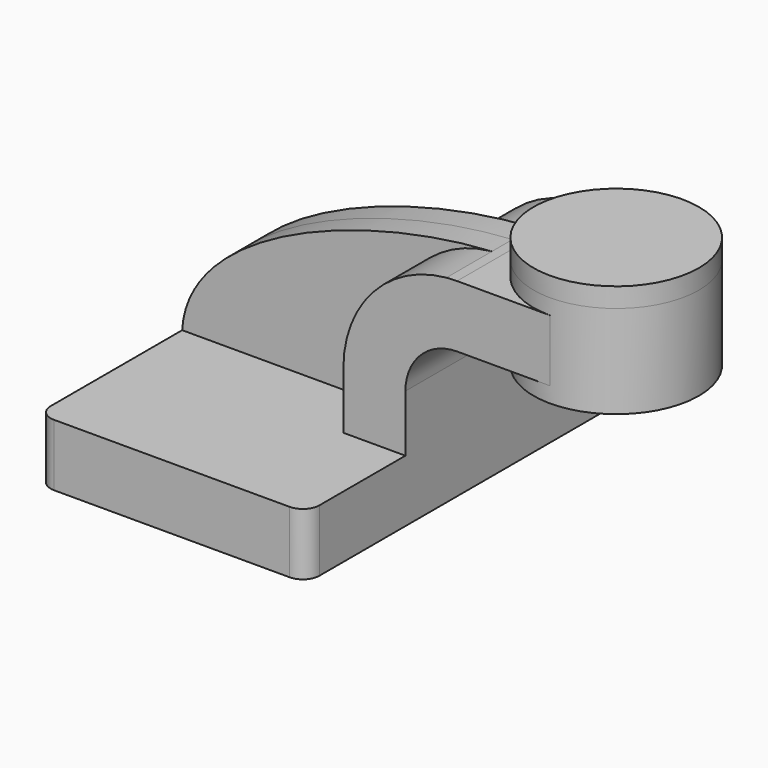
from build123d import *

# Parameters (mm, degrees)
F1_DEPTH = 63.5
F0_W     = 25.4
F0_H     = 19.05
F2_DEPTH = 25.4
F3_DEPTH = 7.9375
F5_R     = 5.08
F6_DEPTH = 6


with BuildPart() as f1:
    # F0 (on Front) → F1 (new body, symmetric)
    with BuildSketch(Plane.XZ):
        Polygon((22.225, 9.525), (-41.275, 9.525), (-41.275, -9.525), (41.275, -9.525), (41.275, 9.525), align=None)
    extrude(amount=F1_DEPTH, both=True)

    # F0 (on Front) → F2 (join, symmetric)
    with BuildSketch(Plane.XZ):
        with BuildLine():
            Line((22.225, 27.0002), (22.225, 9.525))
            Line((22.225, 9.525), (41.275, 9.525))
            Line((41.275, 9.525), (41.275, 27.0002))
            ThreePointArc((41.275, 27.0002), (45.9246798487, 38.2255201513), (57.15, 42.8752))
            Line((57.15, 42.8752), (60.325, 42.8752))
            Line((60.325, 42.8752), (60.325, 61.9252))
            Line((60.325, 61.9252), (57.15, 61.9252))
            add(Edge.make_bspline(
                [(53.8854342407, 61.7722898912), (54.9842067368, 61.8365871986), (56.0728453275, 61.8876096574), (57.15, 61.9252)],
                knots=[108.5245810491, 108.5245810491, 108.5245810491, 108.5245810491, 111.5045361635, 111.5045361635, 111.5045361635, 111.5045361635], degree=3))
            ThreePointArc((53.8854342407, 61.7722898912), (31.3258777096, 50.5133948686), (22.225, 27.0002))
        make_face()
        with Locations((73.025, 52.4002)):
            Rectangle(F0_W, F0_H)
    extrude(amount=F2_DEPTH, both=True)

    # F0 (on Front) → F3 (join, symmetric)
    with BuildSketch(Plane.XZ):
        with BuildLine():
            add(Edge.make_bspline(
                [(-41.275, 9.525), (-39.5856284224, 39.4828766469), (13.870125209, 59.4306981306), (53.8854342407, 61.7722898912)],
                knots=[0, 0, 0, 0, 108.5245810491, 108.5245810491, 108.5245810491, 108.5245810491], degree=3))
            Line((-41.275, 9.525), (22.225, 9.525))
            Line((22.225, 9.525), (22.225, 27.0002))
            ThreePointArc((22.225, 27.0002), (31.3258777096, 50.5133948686), (53.8854342407, 61.7722898912))
        make_face()
    extrude(amount=F3_DEPTH, both=True)

    # F0 (on Front) → F4 (revolve)
    with BuildSketch(Plane.XZ):
        Polygon((85.725, 66.675), (85.725, 61.9252), (85.725, 42.8752), (85.725, 38.1), (111.125, 38.1), (111.125, 66.675), align=None)
    revolve(axis=Axis((85.725, 0, 52.3875), (0, 0, 1)))

    # F5
    f5_edges = [f1.edges().sort_by_distance(p)[0] for p in [
        (41.275, -63.5, 0),
        (-41.275, -63.5, 0),
        (41.275, 63.5, 0),
        (-41.275, 63.5, 0),
    ]]
    fillet(f5_edges, radius=F5_R)

    # F6 (add): a face of the model
    f6_faces = [f1.faces().sort_by_distance(p)[0] for p in [
        (85.725, 0, 66.675),
    ]]
    extrude(f6_faces, amount=F6_DEPTH)


solid = f1.part
